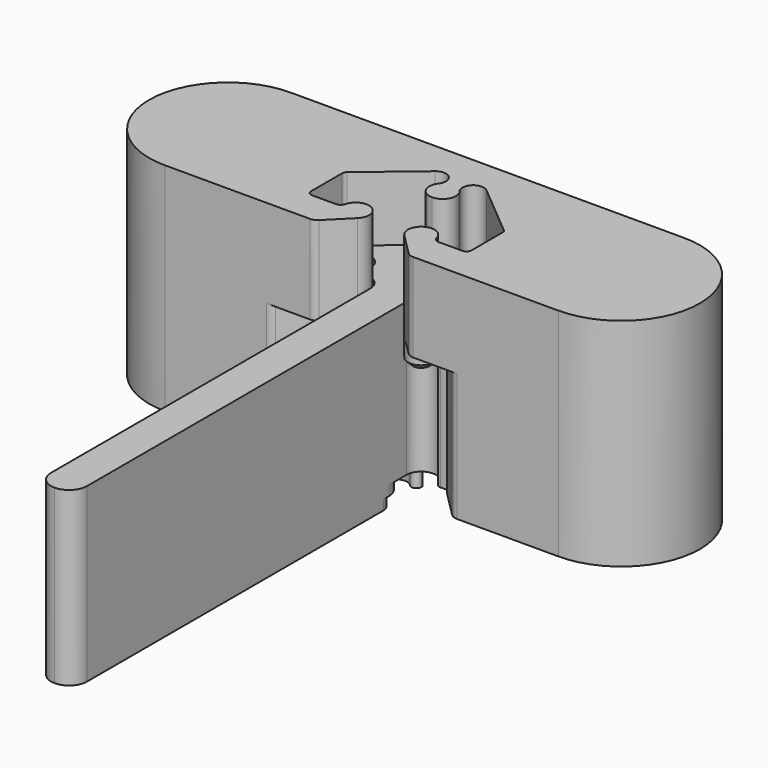
from build123d import *

# Parameters (mm, degrees)
SKETCH_R     = 1.5
PAD_DEPTH    = 15.5
PAD006_DEPTH = 2
PAD005_DEPTH = 15.5
PAD007_DEPTH = 1
PAD008_DEPTH = 2
PAD001_DEPTH = 22
PAD002_DEPTH = 9
SKETCH003_R  = 1.35
PAD003_DEPTH = 2.5
CHAMFER_SIZE = 0.5


with BuildPart() as body:
    # Sketch → Pad (new body)
    with BuildSketch(Plane.XY):
        with BuildLine():
            ThreePointArc((-1.83, -3.58), (-3.140994, -2.091955), (-4.782369, -3.205))
            ThreePointArc((-5.266492, -3.58), (-4.960305, -3.475285), (-4.782369, -3.205))
            Line((-7.5, -3.58), (-5.266492, -3.58))
            ThreePointArc((-8, -3.08), (-7.853553, -3.433553), (-7.5, -3.58))
            Line((-8, -3.08), (-8, 0.651604))
            ThreePointArc((-7.821394, 1.034626), (-7.953154, 0.862913), (-8, 0.651604))
            Line((-7.821394, 1.034626), (-2.519579, 5.483377))
            ThreePointArc((-1.19, 4.213181), (-1.286033, 5.443625), (-2.519579, 5.483377))
            ThreePointArc((-1.19, 4.213181), (-1.34532, 2.636589), (0, 1.8))
            Line((0, -4), (0, 1.8))
            Line((-1.83, -4), (0, -4))
            Line((-1.83, -3.58), (-1.83, -4))
        make_face()
        with Locations((-5.560473, -0.741499)):
            Circle(SKETCH_R, mode=Mode.SUBTRACT)
    pad = extrude(amount=PAD_DEPTH)

    # Sketch006 → Pad006 (join)
    with BuildSketch(Plane.XY):
        with BuildLine():
            ThreePointArc((0, 0.225), (-0.133939, 0.198358), (-0.247487, 0.122487))
            Line((-0.247487, 0.122487), (-1.516421, -1.146447))
            ThreePointArc((-1.516421, -1.146447), (-1.497993, -1.871068), (-0.775245, -1.81583))
            ThreePointArc((0, -1.44749), (-0.42915, -1.544257), (-0.775245, -1.81583))
            Line((0, 0.225), (0, -1.44749))
        make_face()
    pad006 = extrude(amount=-PAD006_DEPTH)

    # Mirrored: Pad, Pad006 across Sketch V_Axis
    add(pad.mirror(Plane(origin=(0, 0, 0), x_dir=(0, 0, 1), z_dir=(1, 0, 0))))
    add(pad006.mirror(Plane(origin=(0, 0, 0), x_dir=(0, 0, 1), z_dir=(1, 0, 0))))

    # Sketch005 → Pad005 (join)
    with BuildSketch(Plane.XY):
        with BuildLine():
            Line((-1.83, -4), (-1.83, -44.17))
            ThreePointArc((-1.83, -44.17), (-1.294005, -45.464005), (0, -46))
            Line((0, -4), (0, -46))
            Line((-1.83, -4), (0, -4))
        make_face()
    pad005 = extrude(amount=PAD005_DEPTH)

    # Sketch007 → Pad007 (join)
    with BuildSketch(Plane.XY):
        with BuildLine():
            ThreePointArc((0, -4), (-1.294005, -4.535995), (-1.83, -5.83))
            Line((-1.83, -5.83), (-1.83, -44.17))
            ThreePointArc((-1.83, -44.17), (-1.294005, -45.464005), (0, -46))
            Line((0, -4), (0, -46))
        make_face()
    pad007 = extrude(amount=-PAD007_DEPTH)

    # Sketch008 → Pad008 (join)
    with BuildSketch(Plane.XY):
        with BuildLine():
            ThreePointArc((0, -4.75), (-0.468787, -4.843248), (-0.866206, -5.108794))
            Line((-1.537107, -5.779695), (-0.866206, -5.108794))
            ThreePointArc((-1.537107, -5.779695), (-1.75388, -6.104119), (-1.83, -6.486802))
            Line((-1.83, -6.486802), (-1.83, -44.17))
            ThreePointArc((-1.83, -44.17), (-1.294005, -45.464005), (0, -46))
            Line((0, -4.75), (0, -46))
        make_face()
    pad008 = extrude(amount=-PAD008_DEPTH)

    # Mirrored002: Pad005, Pad007, Pad008 across Sketch004 V_Axis
    add(pad005.mirror(Plane(origin=(0, 0, 0), x_dir=(0, 0, 1), z_dir=(1, 0, 0))))
    add(pad007.mirror(Plane(origin=(0, 0, 0), x_dir=(0, 0, 1), z_dir=(1, 0, 0))))
    add(pad008.mirror(Plane(origin=(0, 0, 0), x_dir=(0, 0, 1), z_dir=(1, 0, 0))))


with BuildPart() as body001:
    # Sketch001 → Pad001 (new body)
    with BuildSketch(Plane.XY):
        with BuildLine():
            Line((0, 9), (-20, 9))
            ThreePointArc((-20, 9), (-28, 1), (-20, -7))
            Line((-20, -7), (-9.68066, -7))
            ThreePointArc((-9.68066, -7), (-9.297977, -6.92388), (-8.973553, -6.707107))
            Line((-6.423223, -4.156777), (-8.973553, -6.707107))
            ThreePointArc((-6.423223, -4.156777), (-6.36903, -3.884329), (-6.6, -3.73))
            Line((-7.65, -3.73), (-6.6, -3.73))
            ThreePointArc((-8.15, -3.23), (-8.003553, -3.583553), (-7.65, -3.73))
            Line((-8.15, 0.721553), (-8.15, -3.23))
            ThreePointArc((-7.971394, 1.104575), (-8.103154, 0.932862), (-8.15, 0.721553))
            Line((-2.615995, 5.598288), (-7.971394, 1.104575))
            ThreePointArc((-1.071649, 4.121017), (-1.181916, 5.551613), (-2.615995, 5.598288))
            ThreePointArc((-1.071649, 4.121017), (-1.210552, 2.702452), (0, 1.95))
            Line((0, 9), (0, 1.95))
        make_face()
    pad001 = extrude(amount=PAD001_DEPTH)

    # Sketch002 (on DatumPlane) → Pad002 (join)
    with BuildSketch(Plane.XY.offset(13)):
        with BuildLine():
            ThreePointArc((-2.375406, -4.539144), (-2.669448, -2.407193), (-4.642209, -3.267362))
            ThreePointArc((-5.23, -3.73), (-4.85599, -3.600467), (-4.642209, -3.267362))
            Line((-5.23, -3.73), (-10, -3.73))
            Line((-10, -7), (-10, -3.73))
            Line((-5.250475, -7), (-10, -7))
            ThreePointArc((-5.250475, -7), (-4.867792, -6.92388), (-4.543368, -6.707107))
            Line((-4.543368, -6.707107), (-2.375406, -4.539144))
        make_face()
    pad002 = extrude(amount=PAD002_DEPTH)

    # Sketch003 (on DatumPlane) → Pad003 (join)
    with BuildSketch(Plane.XY.offset(13)):
        with Locations((-3.33, -3.58455)):
            Circle(SKETCH003_R)
    pad003 = extrude(amount=-PAD003_DEPTH)

    # Mirrored001: Pad001, Pad002, Pad003 across Sketch001 V_Axis
    add(pad001.mirror(Plane(origin=(0, 0, 0), x_dir=(0, 0, 1), z_dir=(1, 0, 0))))
    add(pad002.mirror(Plane(origin=(0, 0, 0), x_dir=(0, 0, 1), z_dir=(1, 0, 0))))
    add(pad003.mirror(Plane(origin=(0, 0, 0), x_dir=(0, 0, 1), z_dir=(1, 0, 0))))

    # Chamfer
    chamfer_edges = [body001.edges().sort_by_distance(p)[0] for p in [
        (4.68, -3.58455, 10.5),
        (-4.68, -3.58455, 10.5),
    ]]
    chamfer(chamfer_edges, length=CHAMFER_SIZE)


solid = Compound([body.part, body001.part])
